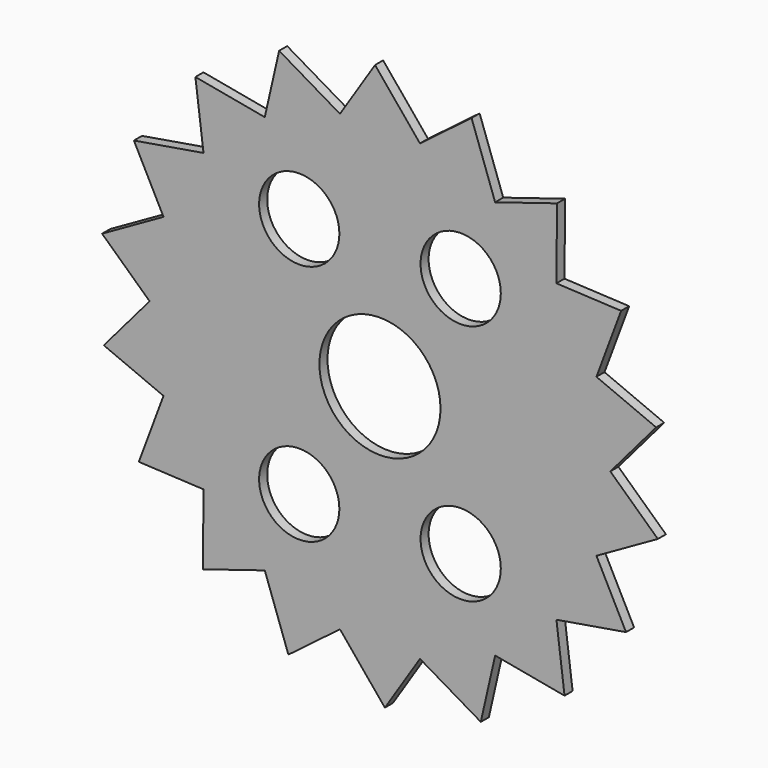
from build123d import *

# Parameters (mm, degrees)
F0_R     = 12.6233535656
F0_R_2   = 19.05
F1_DEPTH = 3.175


with BuildPart() as f1:
    # F0 (on Front) → F1 (new body)
    with BuildSketch(Plane.XZ):
        with BuildLine():
            ThreePointArc((68.11386007, -24.7914176064), (71.3840419736, -12.586932592), (72.485255884, 0))
            ThreePointArc((72.485255884, 0), (71.3840419736, 12.586932592), (68.11386007, 24.7914176064))
            ThreePointArc((68.11386007, 24.7914176064), (62.7740729954, 36.242627942), (55.526927478, 46.5926243672))
            ThreePointArc((55.526927478, 46.5926243672), (46.5926243672, 55.526927478), (36.242627942, 62.7740729954))
            ThreePointArc((36.242627942, 62.7740729954), (24.7914176064, 68.11386007), (12.586932592, 71.3840419736))
            ThreePointArc((12.586932592, 71.3840419736), (0, 72.485255884), (-12.586932592, 71.3840419736))
            ThreePointArc((-12.586932592, 71.3840419736), (-24.7914176064, 68.11386007), (-36.242627942, 62.7740729954))
            ThreePointArc((-36.242627942, 62.7740729954), (-46.5926243672, 55.526927478), (-55.526927478, 46.5926243672))
            ThreePointArc((-55.526927478, 46.5926243672), (-62.7740729954, 36.242627942), (-68.11386007, 24.7914176064))
            ThreePointArc((-68.11386007, 24.7914176064), (-71.3840419736, 12.586932592), (-72.485255884, 0))
            ThreePointArc((-72.485255884, 0), (-71.3840419736, -12.586932592), (-68.11386007, -24.7914176064))
            ThreePointArc((-68.11386007, -24.7914176064), (-62.7740729954, -36.242627942), (-55.526927478, -46.5926243672))
            ThreePointArc((-55.526927478, -46.5926243672), (-46.5926243672, -55.526927478), (-36.242627942, -62.7740729954))
            ThreePointArc((-36.242627942, -62.7740729954), (-24.7914176064, -68.11386007), (-12.586932592, -71.3840419736))
            ThreePointArc((-12.586932592, -71.3840419736), (0, -72.485255884), (12.586932592, -71.3840419736))
            ThreePointArc((12.586932592, -71.3840419736), (24.7914176064, -68.11386007), (36.242627942, -62.7740729954))
            ThreePointArc((36.242627942, -62.7740729954), (46.5926243672, -55.526927478), (55.526927478, -46.5926243672))
            ThreePointArc((55.526927478, -46.5926243672), (62.7740729954, -36.242627942), (68.11386007, -24.7914176064))
        make_face()
        with Locations((-25.4, -38.1)):
            Circle(F0_R, mode=Mode.SUBTRACT)
        with Locations((25.4, -38.1)):
            Circle(F0_R, mode=Mode.SUBTRACT)
        with Locations((-25.4, 38.1)):
            Circle(F0_R, mode=Mode.SUBTRACT)
        Circle(F0_R_2, mode=Mode.SUBTRACT)
        with Locations((25.4, 38.1)):
            Circle(F0_R, mode=Mode.SUBTRACT)
        with BuildLine():
            Line((87.4346938634, -13.8457773117), (72.485255884, 0))
            ThreePointArc((72.485255884, 0), (71.3840419736, -12.586932592), (68.11386007, -24.7914176064))
            Line((68.11386007, -24.7914176064), (87.4346938634, -13.8457773117))
        make_face()
        with BuildLine():
            ThreePointArc((68.11386007, 24.7914176064), (71.3840419736, 12.586932592), (72.485255884, 0))
            Line((72.485255884, 0), (86.8972713647, 16.893651758))
            Line((86.8972713647, 16.893651758), (68.11386007, 24.7914176064))
        make_face()
        with BuildLine():
            ThreePointArc((55.526927478, 46.5926243672), (62.7740729954, 36.242627942), (68.11386007, 24.7914176064))
            Line((68.11386007, 24.7914176064), (75.8787554723, 45.5954571019))
            Line((75.8787554723, 45.5954571019), (55.526927478, 46.5926243672))
        make_face()
        with BuildLine():
            Line((77.4262018835, -42.9152012956), (68.11386007, -24.7914176064))
            ThreePointArc((68.11386007, -24.7914176064), (62.7740729954, -36.242627942), (55.526927478, -46.5926243672))
            Line((55.526927478, -46.5926243672), (77.4262018835, -42.9152012956))
        make_face()
        with BuildLine():
            ThreePointArc((36.242627942, 62.7740729954), (46.5926243672, 55.526927478), (55.526927478, 46.5926243672))
            Line((55.526927478, 46.5926243672), (55.7081418188, 68.797777402))
            Line((55.7081418188, 68.797777402), (36.242627942, 62.7740729954))
        make_face()
        with BuildLine():
            Line((58.0789672675, -66.8084186424), (55.526927478, -46.5926243672))
            ThreePointArc((55.526927478, -46.5926243672), (46.5926243672, -55.526927478), (36.242627942, -62.7740729954))
            Line((36.242627942, -62.7740729954), (58.0789672675, -66.8084186424))
        make_face()
        with BuildLine():
            ThreePointArc((12.586932592, 71.3840419736), (24.7914176064, 68.11386007), (36.242627942, 62.7740729954))
            Line((36.242627942, 62.7740729954), (28.8183040973, 83.7020704004))
            Line((28.8183040973, 83.7020704004), (12.586932592, 71.3840419736))
        make_face()
        with BuildLine():
            Line((31.7265520446, -82.6435547137), (36.242627942, -62.7740729954))
            ThreePointArc((36.242627942, -62.7740729954), (24.7914176064, -68.11386007), (12.586932592, -71.3840419736))
            Line((12.586932592, -71.3840419736), (31.7265520446, -82.6435547137))
        make_face()
        with BuildLine():
            ThreePointArc((-12.586932592, 71.3840419736), (0, 72.485255884), (12.586932592, 71.3840419736))
            Line((12.586932592, 71.3840419736), (-1.5474464112, 88.5106583975))
            Line((-1.5474464112, 88.5106583975), (-12.586932592, 71.3840419736))
        make_face()
        with BuildLine():
            Line((1.5474464112, -88.5106583975), (12.586932592, -71.3840419736))
            ThreePointArc((12.586932592, -71.3840419736), (0, -72.485255884), (-12.586932592, -71.3840419736))
            Line((-12.586932592, -71.3840419736), (1.5474464112, -88.5106583975))
        make_face()
        with BuildLine():
            ThreePointArc((-36.242627942, 62.7740729954), (-24.7914176064, 68.11386007), (-12.586932592, 71.3840419736))
            Line((-12.586932592, 71.3840419736), (-31.7265520446, 82.6435547137))
            Line((-31.7265520446, 82.6435547137), (-36.242627942, 62.7740729954))
        make_face()
        with BuildLine():
            Line((-28.8183040973, -83.7020704004), (-12.586932592, -71.3840419736))
            ThreePointArc((-12.586932592, -71.3840419736), (-24.7914176064, -68.11386007), (-36.242627942, -62.7740729954))
            Line((-36.242627942, -62.7740729954), (-28.8183040973, -83.7020704004))
        make_face()
        with BuildLine():
            ThreePointArc((-55.526927478, 46.5926243672), (-46.5926243672, 55.526927478), (-36.242627942, 62.7740729954))
            Line((-36.242627942, 62.7740729954), (-58.0789672675, 66.8084186424))
            Line((-58.0789672675, 66.8084186424), (-55.526927478, 46.5926243672))
        make_face()
        with BuildLine():
            Line((-55.7081418188, -68.797777402), (-36.242627942, -62.7740729954))
            ThreePointArc((-36.242627942, -62.7740729954), (-46.5926243672, -55.526927478), (-55.526927478, -46.5926243672))
            Line((-55.526927478, -46.5926243672), (-55.7081418188, -68.797777402))
        make_face()
        with BuildLine():
            ThreePointArc((-68.11386007, 24.7914176064), (-62.7740729954, 36.242627942), (-55.526927478, 46.5926243672))
            Line((-55.526927478, 46.5926243672), (-77.4262018835, 42.9152012956))
            Line((-77.4262018835, 42.9152012956), (-68.11386007, 24.7914176064))
        make_face()
        with BuildLine():
            Line((-75.8787554723, -45.5954571019), (-55.526927478, -46.5926243672))
            ThreePointArc((-55.526927478, -46.5926243672), (-62.7740729954, -36.242627942), (-68.11386007, -24.7914176064))
            Line((-68.11386007, -24.7914176064), (-75.8787554723, -45.5954571019))
        make_face()
        with BuildLine():
            ThreePointArc((-72.485255884, 0), (-71.3840419736, 12.586932592), (-68.11386007, 24.7914176064))
            Line((-68.11386007, 24.7914176064), (-87.4346938634, 13.8457773117))
            Line((-87.4346938634, 13.8457773117), (-72.485255884, 0))
        make_face()
        with BuildLine():
            Line((-86.8972713647, -16.893651758), (-68.11386007, -24.7914176064))
            ThreePointArc((-68.11386007, -24.7914176064), (-71.3840419736, -12.586932592), (-72.485255884, 0))
            Line((-72.485255884, 0), (-86.8972713647, -16.893651758))
        make_face()
    extrude(amount=F1_DEPTH)


solid = f1.part
